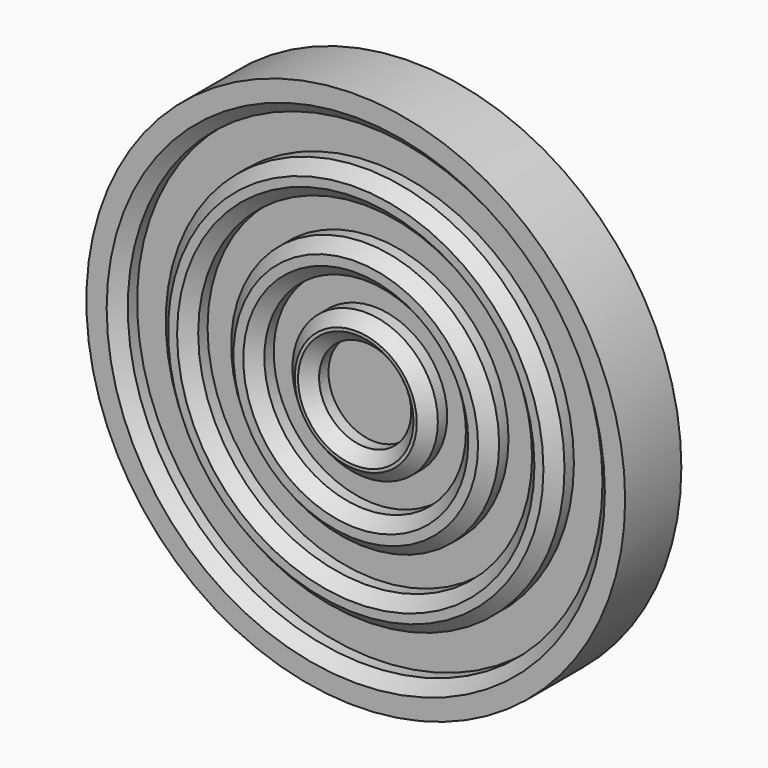
from build123d import *

# Parameters (mm, degrees)
F0_R     = 11.5
F1_DEPTH = 2
F2_R     = 11.5
F2_R_2   = 10.133636
F2_R_3   = 8.512332
F2_R_4   = 7.127684
F2_R_5   = 5.721488
F2_R_6   = 4.303126
F2_R_7   = 3.104156
F2_R_8   = 1.964911
F3_DEPTH = 1
F4_SIZE  = 0.5
F5_SIZE  = 0.5


with BuildPart() as f1:
    # F0 (on Front) → F1 (new body)
    with BuildSketch(Plane.XZ):
        Circle(F0_R)
    extrude(amount=F1_DEPTH)

    # F2 (on face) → F3 (join)
    with BuildSketch(Plane.XZ.offset(2)):
        Circle(F2_R)
        Circle(F2_R_2, mode=Mode.SUBTRACT)
        Circle(F2_R_3)
        Circle(F2_R_4, mode=Mode.SUBTRACT)
        Circle(F2_R_5)
        Circle(F2_R_6, mode=Mode.SUBTRACT)
        Circle(F2_R_7)
        Circle(F2_R_8, mode=Mode.SUBTRACT)
    extrude(amount=F3_DEPTH)

    # F4
    f4_edges = [f1.edges().sort_by_distance(p)[0] for p in [
        (-1.964911, -3, 0),
        (-4.303126, -3, 0),
        (-7.127684, -3, 0),
        (-10.133636, -3, 0),
    ]]
    chamfer(f4_edges, length=F4_SIZE)

    # F5
    f5_edges = [f1.edges().sort_by_distance(p)[0] for p in [
        (-3.104156, -3, 0),
        (-5.721488, -3, 0),
        (-8.512332, -3, 0),
    ]]
    chamfer(f5_edges, length=F5_SIZE)


solid = f1.part
